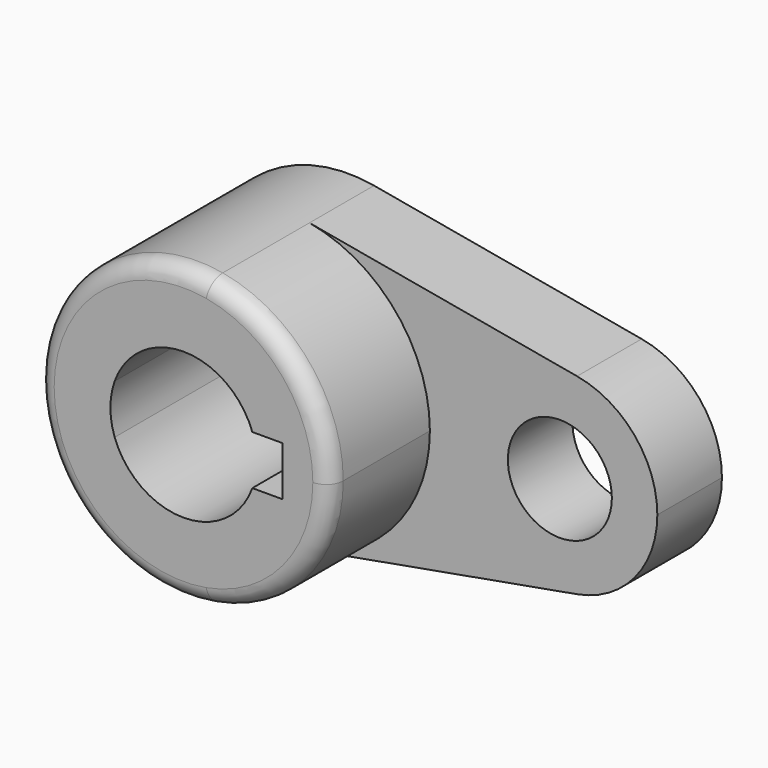
from build123d import *

# Parameters (mm, degrees)
F1_DEPTH = 40.2336
F0_R     = 10.16
F2_DEPTH = 15.7734
F3_R     = 3.302


with BuildPart() as f1:
    # F0 (on Front) → F1 (new body)
    with BuildSketch(Plane.XZ):
        with BuildLine():
            ThreePointArc((-19.211791, -32.491654), (-2.338414, -22.701375), (4.320562, -4.365113))
            ThreePointArc((4.320562, -4.365113), (-2.338414, 13.971149), (-19.211791, 23.761429))
            ThreePointArc((-19.211791, 23.761429), (-52.829438, -4.365113), (-19.211791, -32.491654))
        make_face()
        with BuildLine():
            ThreePointArc((-37.702203, -9.191113), (-38.541938, -4.365113), (-37.702203, 0.460887))
            ThreePointArc((-37.702203, 0.460887), (-24.254438, 9.922387), (-10.806673, 0.460887))
            Line((-10.806673, 0.460887), (-4.885403, 0.460887))
            Line((-4.885403, 0.460887), (-4.885403, -9.191113))
            Line((-4.885403, -9.191113), (-10.806673, -9.191113))
            ThreePointArc((-10.806673, -9.191113), (-24.254438, -18.652613), (-37.702203, -9.191113))
        make_face(mode=Mode.SUBTRACT)
    extrude(amount=F1_DEPTH)

    # F0 (on Front) → F2 (join)
    with BuildSketch(Plane.XZ):
        with BuildLine():
            ThreePointArc((-19.211791, 23.761429), (-2.338414, 13.971149), (4.320562, -4.365113))
            ThreePointArc((4.320562, -4.365113), (-2.338414, -22.701375), (-19.211791, -32.491654))
            Line((-19.211791, -32.491654), (33.082327, -23.116141))
            ThreePointArc((33.082327, -23.116141), (10.670562, -4.365113), (33.082327, 14.385915))
            Line((33.082327, 14.385915), (-19.211791, 23.761429))
        make_face()
        with BuildLine():
            ThreePointArc((48.770562, -4.365113), (44.331245, 7.859062), (33.082327, 14.385915))
            ThreePointArc((33.082327, 14.385915), (10.670562, -4.365113), (33.082327, -23.116141))
            ThreePointArc((33.082327, -23.116141), (44.331245, -16.589287), (48.770562, -4.365113))
        make_face()
        with Locations((29.720562, -4.365113)):
            Circle(F0_R, mode=Mode.SUBTRACT)
    extrude(amount=F2_DEPTH)

    # F3
    f3_edges = [f1.edges().sort_by_distance(p)[0] for p in [
        (-29.297085, -40.2336, 23.761429),
    ]]
    fillet(f3_edges, radius=F3_R)


solid = f1.part
